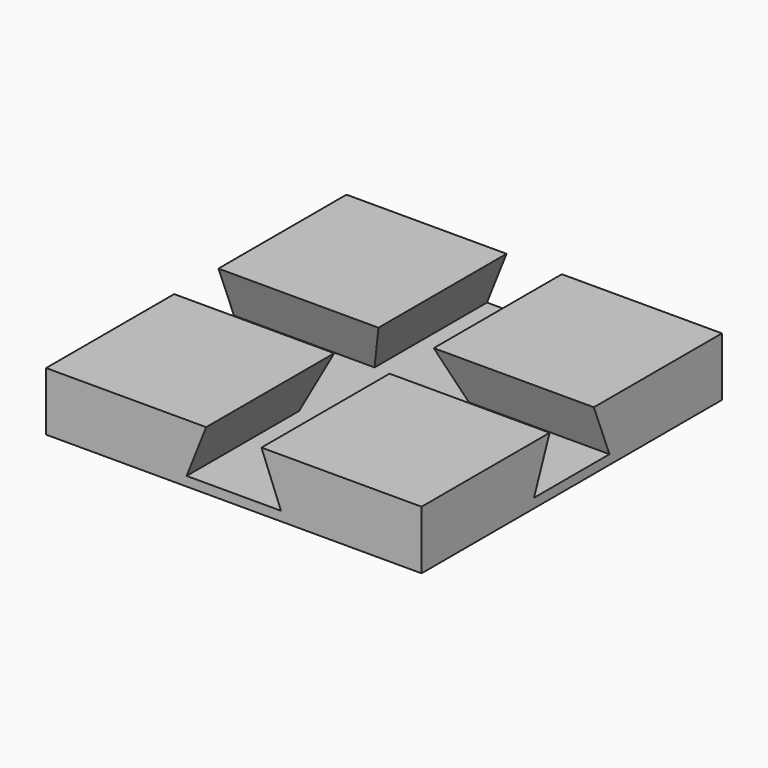
from build123d import *

# Parameters (mm, degrees)
F0_W     = 101.6
F0_H     = 101.6
F1_DEPTH = 19.05
F3_DEPTH = 101.601
F5_DEPTH = 101.601
F6_W     = 101.6
F6_H     = 3.175
F7_DEPTH = 101.601


with BuildPart() as f1:
    # F0 (on Top) → F1 (new body)
    with BuildSketch(Plane.XY):
        Rectangle(F0_W, F0_H)
    extrude(amount=F1_DEPTH)

    # F2 (on face) → F3 (cut, through all)
    with BuildSketch(Plane.YZ.offset(50.8)):
        Polygon((6.223, 19.05), (-6.223, 19.05), (-12.7635, 2.54), (12.7635, 2.54), align=None)
    extrude(amount=-F3_DEPTH, mode=Mode.SUBTRACT)

    # F4 (on face) → F5 (cut, through all)
    with BuildSketch(Plane.XZ.offset(50.8)):
        Polygon((6.223, 19.05), (-6.223, 19.05), (-12.7635, 2.54), (12.7635, 2.54), align=None)
    extrude(amount=-F5_DEPTH, mode=Mode.SUBTRACT)

    # F6 (on face) → F7 (cut, through all)
    with BuildSketch(Plane.YZ.offset(50.8)):
        with Locations((0, 17.4625)):
            Rectangle(F6_W, F6_H)
    extrude(amount=-F7_DEPTH, mode=Mode.SUBTRACT)


solid = f1.part
